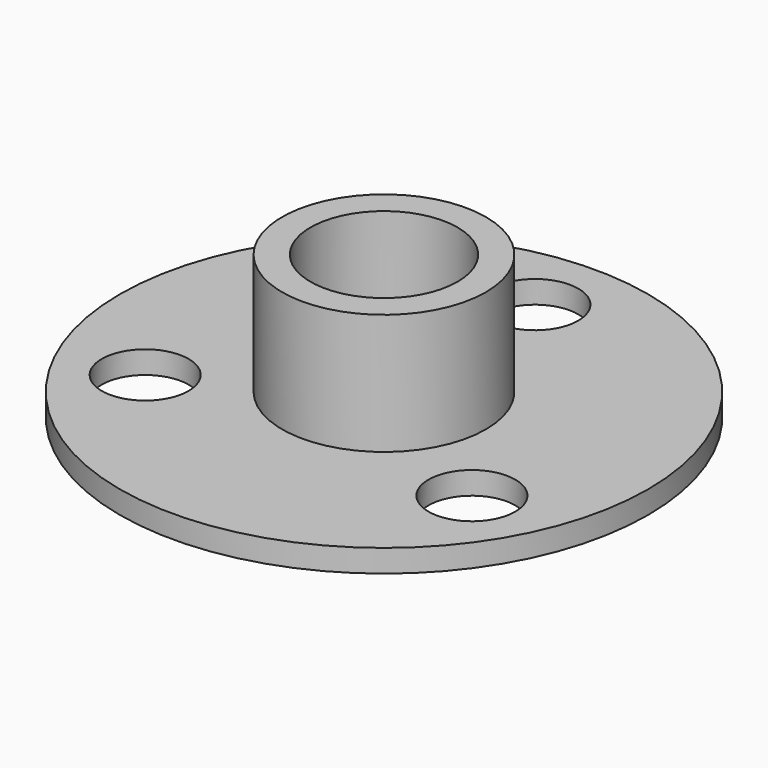
from build123d import *

# Parameters (mm, degrees)
F0_R     = 35
F0_R_2   = 5.75
F0_R_3   = 13.5
F1_DEPTH = 3
F0_R_4   = 9.75
F2_DEPTH = 19


with BuildPart() as f1:
    # F0 (on Top) → F1 (new body)
    with BuildSketch(Plane.XY):
        Circle(F0_R)
        with Locations((-21.650635, -12.5)):
            Circle(F0_R_2, mode=Mode.SUBTRACT)
        with Locations((21.650635, -12.5)):
            Circle(F0_R_2, mode=Mode.SUBTRACT)
        Circle(F0_R_3, mode=Mode.SUBTRACT)
        with Locations((0, 25)):
            Circle(F0_R_2, mode=Mode.SUBTRACT)
    extrude(amount=F1_DEPTH)

    # F0 (on Top) → F2 (join)
    with BuildSketch(Plane.XY):
        Circle(F0_R_3)
        Circle(F0_R_4, mode=Mode.SUBTRACT)
    extrude(amount=F2_DEPTH)


solid = f1.part
